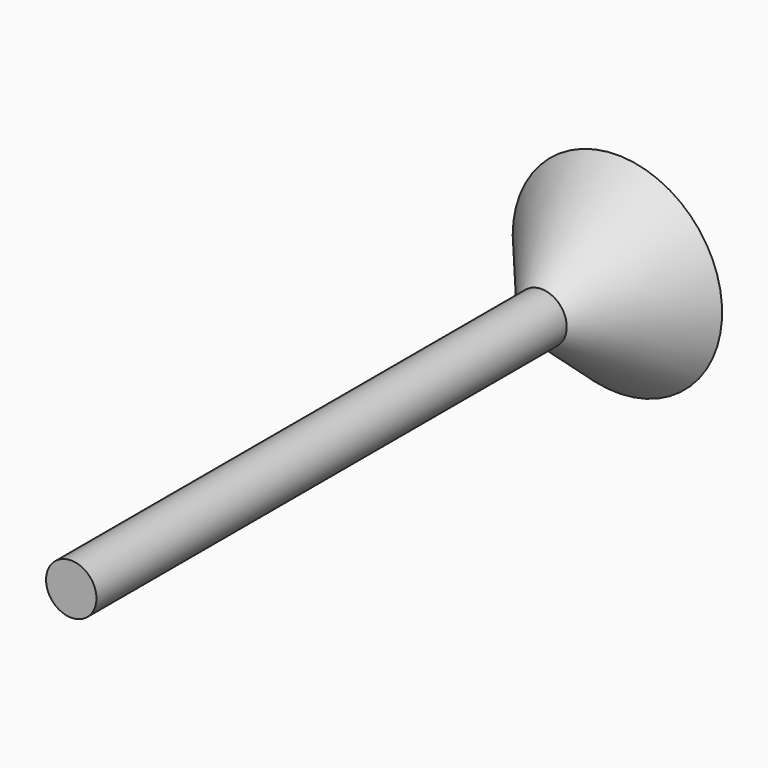
from build123d import *

# Parameters (mm, degrees)
F0_R     = 6.645
F1_DEPTH = 155
F2_R     = 6.6306147882
F3_DEPTH = 25
F3_TAPER = -40


with BuildPart() as f1:
    # F0 (on Front) → F1 (new body)
    with BuildSketch(Plane.XZ):
        Circle(F0_R)
    extrude(amount=F1_DEPTH)

    # F2 (on face) → F3 (join)
    with BuildSketch(Plane(origin=(0, 0, 0), x_dir=(-1, 0, 0), z_dir=(0, 1, 0))):
        Circle(F2_R)
    extrude(amount=F3_DEPTH, taper=F3_TAPER)


solid = f1.part
